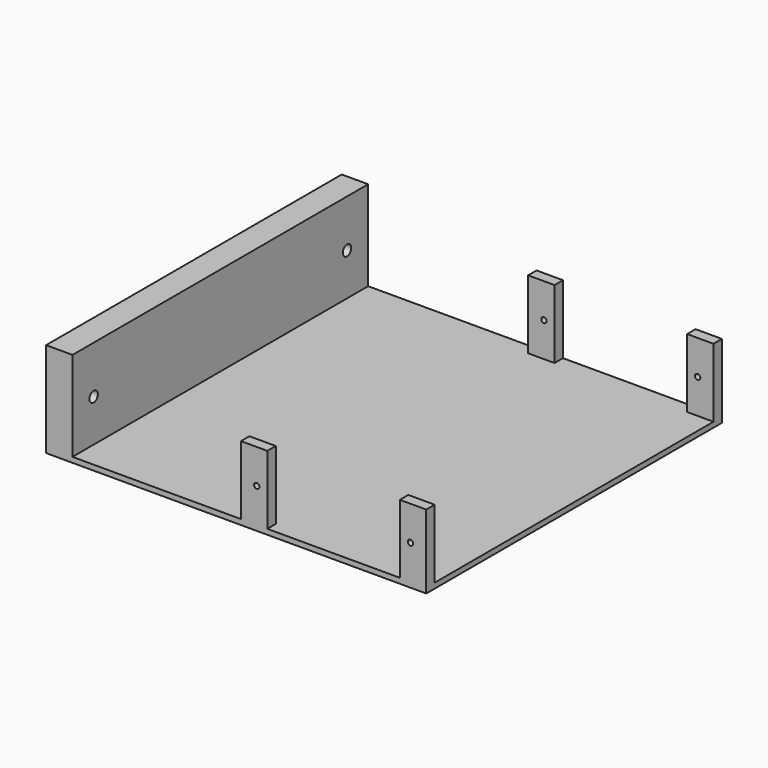
from build123d import *

# Parameters (mm, degrees)
F0_W     = 72
F0_H     = 70
F1_DEPTH = 1
F2_W     = 5
F2_H     = 70
F3_DEPTH = 17
F4_R     = 1
F5_DEPTH = 5
F2_H_2   = 2
F6_DEPTH = 13
F7_R     = 0.5
F8_DEPTH = 70.001


with BuildPart() as f1:
    # F0 (on Top) → F1 (new body)
    with BuildSketch(Plane.XY):
        with Locations((-4, -15)):
            Rectangle(F0_W, F0_H)
    extrude(amount=F1_DEPTH)

    # F2 (on face) → F3 (join)
    with BuildSketch(Plane.XY.offset(1)):
        with Locations((-37.5, -15)):
            Rectangle(F2_W, F2_H)
    extrude(amount=F3_DEPTH)

    # F4 (on face) → F5 (cut, through all)
    with BuildSketch(Plane(origin=(-40, 0, 0), x_dir=(0, -1, 0), z_dir=(-1, 0, 0))):
        with Locations((-15, 9)):
            Circle(F4_R)
        with Locations((45, 9)):
            Circle(F4_R)
    extrude(amount=-F5_DEPTH, mode=Mode.SUBTRACT)

    # F2 (on face) → F6 (join)
    with BuildSketch(Plane.XY.offset(1)):
        with Locations((-0.6, 19)):
            Rectangle(F2_W, F2_H_2)
        with Locations((29.5, 19)):
            Rectangle(F2_W, F2_H_2)
        with Locations((-0.6, -49)):
            Rectangle(F2_W, F2_H_2)
        with Locations((29.5, -49)):
            Rectangle(F2_W, F2_H_2)
    extrude(amount=F6_DEPTH)

    # F7 (on face) → F8 (cut, through all)
    with BuildSketch(Plane.XZ.offset(50)):
        with Locations((-0.1, 7.5)):
            Circle(F7_R)
        with Locations((29, 7.5)):
            Circle(F7_R)
    extrude(amount=-F8_DEPTH, mode=Mode.SUBTRACT)


solid = f1.part
